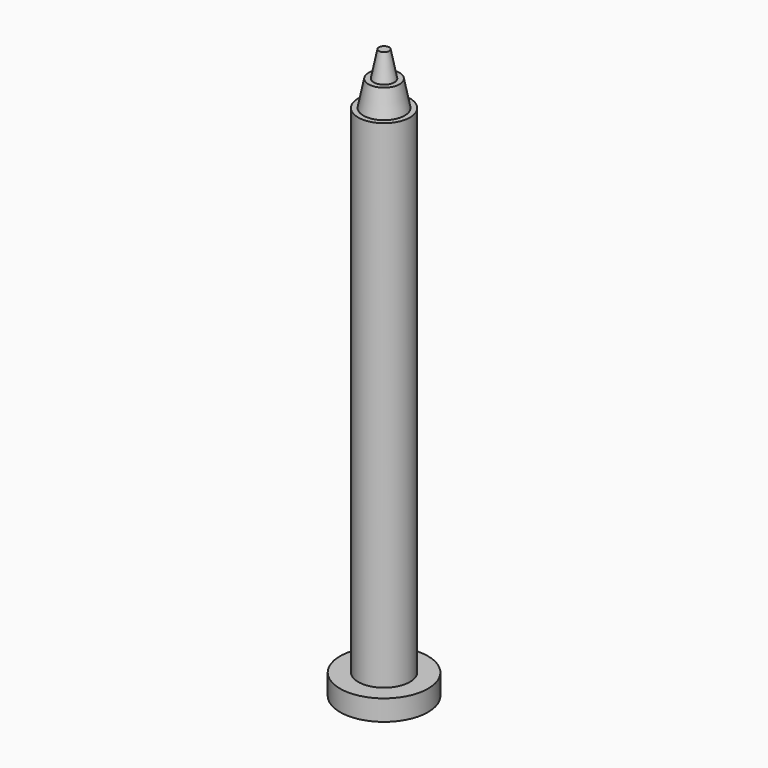
from build123d import *

# Parameters (mm, degrees)
F0_R     = 8.5
F1_DEPTH = 4
F2_R     = 5
F3_DEPTH = 100


with BuildPart() as f1:
    # F0 (on Top) → F1 (new body)
    with BuildSketch(Plane.XY):
        Circle(F0_R)
    extrude(amount=F1_DEPTH)

    # F2 (on Top) → F3 (join)
    with BuildSketch(Plane.XY):
        Circle(F2_R)
    extrude(amount=F3_DEPTH)

    # F4 (on Right) → F5 (revolve)
    with BuildSketch(Plane.YZ):
        Polygon((3, 105), (0, 105), (0, 100), (4, 100), align=None)
    revolve(axis=Axis((0, 0, 102.5), (0, 0, -1)))

    # F6 (on Right) → F7 (revolve)
    with BuildSketch(Plane.YZ):
        Polygon((1, 110), (0, 110), (0, 105), (2, 105), align=None)
    revolve(axis=Axis((0, 0, 107.5), (0, 0, -1)))


solid = f1.part
